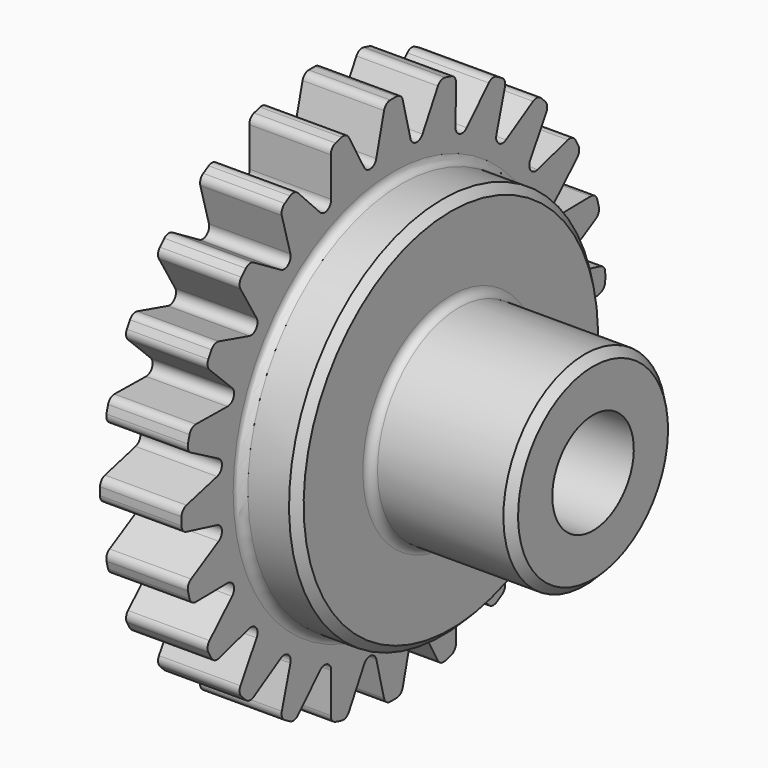
from build123d import *

# Parameters (mm, degrees)
F3_DEPTH = 25
F4_R     = 0.2
F5_R     = 0.2
F6_R     = 0.2
F7_SIZE  = 0.2


with BuildPart() as f1:
    # F0 (on Front) → F1 (revolve)
    with BuildSketch(Plane.XZ):
        Polygon((0, 6.5), (0, 1.25), (6.9, 1.25), (6.9, 2.5), (3.41, 2.5), (3.41, 4.715), (2, 4.715), (2, 6.5), align=None)
    revolve(axis=Axis((5.8943261392, 0, 0), (1, 0, 0)))

    # F2 (on face) → F3 (cut)
    with BuildSketch(Plane(origin=(0, 0, 0), x_dir=(0, -1, 0), z_dir=(-1, 0, 0))):
        with BuildLine():
            Line((-3.0225211308, 3.9390262276), (-3.4641016151, 5.5))
            ThreePointArc((-3.4641016151, 5.5), (-3.9569492886, 5.1567967119), (-4.4160165724, 4.769569963))
            Line((-4.4160165724, 4.769569963), (-3.0225211308, 3.9390262276))
        make_face()
        with BuildLine():
            Line((-1.9000362139, 4.5870931966), (-1.9225604669, 6.2091675168))
            ThreePointArc((-1.9225604669, 6.2091675168), (-2.4874423104, 6.0052169613), (-3.0310889132, 5.75))
            Line((-3.0310889132, 5.75), (-1.9000362139, 4.5870931966))
        make_face()
        with BuildLine():
            Line((-0.6480669689, 4.9225573447), (-0.25, 6.4951905284))
            ThreePointArc((-0.25, 6.4951905284), (-0.8484202494, 6.4443915989), (-1.4395975537, 6.3385770393))
            Line((-1.4395975537, 6.3385770393), (-0.6480669689, 4.9225573447))
        make_face()
        with BuildLine():
            ThreePointArc((1.4395975537, 6.3385770393), (0.8484202494, 6.4443915989), (0.25, 6.4951905284))
            Line((0.25, 6.4951905284), (0.6480669689, 4.9225573447))
            Line((0.6480669689, 4.9225573447), (1.4395975537, 6.3385770393))
        make_face()
        with BuildLine():
            ThreePointArc((3.0310889132, 5.75), (2.4874423104, 6.0052169613), (1.9225604669, 6.2091675168))
            Line((1.9225604669, 6.2091675168), (1.9000362139, 4.5870931966))
            Line((1.9000362139, 4.5870931966), (3.0310889132, 5.75))
        make_face()
        with BuildLine():
            ThreePointArc((4.4160165724, 4.769569963), (3.9569492886, 5.1567967119), (3.4641016151, 5.5))
            Line((3.4641016151, 5.5), (3.0225211308, 3.9390262276))
            Line((3.0225211308, 3.9390262276), (4.4160165724, 4.769569963))
        make_face()
        with BuildLine():
            ThreePointArc((5.5, 3.4641016151), (5.1567967119, 3.9569492886), (4.769569963, 4.4160165724))
            Line((4.769569963, 4.4160165724), (3.9390262276, 3.0225211308))
            Line((3.9390262276, 3.0225211308), (5.5, 3.4641016151))
        make_face()
        with BuildLine():
            ThreePointArc((6.2091675168, 1.9225604669), (6.0052169613, 2.4874423104), (5.75, 3.0310889132))
            Line((5.75, 3.0310889132), (4.5870931966, 1.9000362139))
            Line((4.5870931966, 1.9000362139), (6.2091675168, 1.9225604669))
        make_face()
        with BuildLine():
            ThreePointArc((6.4951905284, 0.25), (6.4443915989, 0.8484202494), (6.3385770393, 1.4395975537))
            Line((6.3385770393, 1.4395975537), (4.9225573447, 0.6480669689))
            Line((4.9225573447, 0.6480669689), (6.4951905284, 0.25))
        make_face()
        with BuildLine():
            ThreePointArc((6.3385770393, -1.4395975537), (6.4443915989, -0.8484202494), (6.4951905284, -0.25))
            Line((6.4951905284, -0.25), (4.9225573447, -0.6480669689))
            Line((4.9225573447, -0.6480669689), (6.3385770393, -1.4395975537))
        make_face()
        with BuildLine():
            ThreePointArc((5.75, -3.0310889132), (6.0052169613, -2.4874423104), (6.2091675168, -1.9225604669))
            Line((6.2091675168, -1.9225604669), (4.5870931966, -1.9000362139))
            Line((4.5870931966, -1.9000362139), (5.75, -3.0310889132))
        make_face()
        with BuildLine():
            ThreePointArc((4.769569963, -4.4160165724), (5.1567967119, -3.9569492886), (5.5, -3.4641016151))
            Line((5.5, -3.4641016151), (3.9390262276, -3.0225211308))
            Line((3.9390262276, -3.0225211308), (4.769569963, -4.4160165724))
        make_face()
        with BuildLine():
            ThreePointArc((3.4641016151, -5.5), (3.9569492886, -5.1567967119), (4.4160165724, -4.769569963))
            Line((4.4160165724, -4.769569963), (3.0225211308, -3.9390262276))
            Line((3.0225211308, -3.9390262276), (3.4641016151, -5.5))
        make_face()
        with BuildLine():
            ThreePointArc((1.9225604669, -6.2091675168), (2.4874423104, -6.0052169613), (3.0310889132, -5.75))
            Line((3.0310889132, -5.75), (1.9000362139, -4.5870931966))
            Line((1.9000362139, -4.5870931966), (1.9225604669, -6.2091675168))
        make_face()
        with BuildLine():
            ThreePointArc((0.25, -6.4951905284), (0.8484202494, -6.4443915989), (1.4395975537, -6.3385770393))
            Line((1.4395975537, -6.3385770393), (0.6480669689, -4.9225573447))
            Line((0.6480669689, -4.9225573447), (0.25, -6.4951905284))
        make_face()
        with BuildLine():
            Line((-0.6480669689, -4.9225573447), (-1.4395975537, -6.3385770393))
            ThreePointArc((-1.4395975537, -6.3385770393), (-0.8484202494, -6.4443915989), (-0.25, -6.4951905284))
            Line((-0.25, -6.4951905284), (-0.6480669689, -4.9225573447))
        make_face()
        with BuildLine():
            Line((-1.9000362139, -4.5870931966), (-3.0310889132, -5.75))
            ThreePointArc((-3.0310889132, -5.75), (-2.4874423104, -6.0052169613), (-1.9225604669, -6.2091675168))
            Line((-1.9225604669, -6.2091675168), (-1.9000362139, -4.5870931966))
        make_face()
        with BuildLine():
            Line((-3.0225211308, -3.9390262276), (-4.4160165724, -4.769569963))
            ThreePointArc((-4.4160165724, -4.769569963), (-3.9569492886, -5.1567967119), (-3.4641016151, -5.5))
            Line((-3.4641016151, -5.5), (-3.0225211308, -3.9390262276))
        make_face()
        with BuildLine():
            Line((-3.9390262276, -3.0225211308), (-5.5, -3.4641016151))
            ThreePointArc((-5.5, -3.4641016151), (-5.1567967119, -3.9569492886), (-4.769569963, -4.4160165724))
            Line((-4.769569963, -4.4160165724), (-3.9390262276, -3.0225211308))
        make_face()
        with BuildLine():
            Line((-4.5870931966, -1.9000362139), (-6.2091675168, -1.9225604669))
            ThreePointArc((-6.2091675168, -1.9225604669), (-6.0052169613, -2.4874423104), (-5.75, -3.0310889132))
            Line((-5.75, -3.0310889132), (-4.5870931966, -1.9000362139))
        make_face()
        with BuildLine():
            Line((-4.9225573447, -0.6480669689), (-6.4951905284, -0.25))
            ThreePointArc((-6.4951905284, -0.25), (-6.4443915989, -0.8484202494), (-6.3385770393, -1.4395975537))
            Line((-6.3385770393, -1.4395975537), (-4.9225573447, -0.6480669689))
        make_face()
        with BuildLine():
            Line((-4.9225573447, 0.6480669689), (-6.3385770393, 1.4395975537))
            ThreePointArc((-6.3385770393, 1.4395975537), (-6.4443915989, 0.8484202494), (-6.4951905284, 0.25))
            Line((-6.4951905284, 0.25), (-4.9225573447, 0.6480669689))
        make_face()
        with BuildLine():
            Line((-4.5870931966, 1.9000362139), (-5.75, 3.0310889132))
            ThreePointArc((-5.75, 3.0310889132), (-6.0052169613, 2.4874423104), (-6.2091675168, 1.9225604669))
            Line((-6.2091675168, 1.9225604669), (-4.5870931966, 1.9000362139))
        make_face()
        with BuildLine():
            Line((-3.9390262276, 3.0225211308), (-4.769569963, 4.4160165724))
            ThreePointArc((-4.769569963, 4.4160165724), (-5.1567967119, 3.9569492886), (-5.5, 3.4641016151))
            Line((-5.5, 3.4641016151), (-3.9390262276, 3.0225211308))
        make_face()
    extrude(amount=-F3_DEPTH, mode=Mode.SUBTRACT)

    # F4
    f4_edges = [f1.edges().sort_by_distance(p)[0] for p in [
        (1, 3.022521, 3.939026),
        (1, 1.900036, 4.587093),
        (1, 0.648067, 4.922557),
        (1, -0.648067, 4.922557),
        (1, -1.900036, 4.587093),
        (1, -3.022521, 3.939026),
        (1, -3.939026, 3.022521),
        (1, -4.587093, 1.900036),
        (1, -4.922557, 0.648067),
        (1, -4.922557, -0.648067),
        (1, -4.587093, -1.900036),
        (1, -3.939026, -3.022521),
        (1, -3.022521, -3.939026),
        (1, -1.900036, -4.587093),
        (1, -0.648067, -4.922557),
        (1, 0.648067, -4.922557),
        (1, 1.900036, -4.587093),
        (1, 3.022521, -3.939026),
        (1, 3.939026, -3.022521),
        (1, 4.587093, -1.900036),
        (1, 4.922557, -0.648067),
        (1, 4.922557, 0.648067),
        (1, 4.587093, 1.900036),
        (1, 3.939026, 3.022521),
    ]]
    fillet(f4_edges, radius=F4_R)

    # F5
    f5_edges = [f1.edges().sort_by_distance(p)[0] for p in [
        (1, -3.031089, 5.75),
        (1, -3.464102, 5.5),
        (1, -4.416017, 4.76957),
        (1, -4.76957, 4.416017),
        (1, -5.5, 3.464102),
        (1, -5.75, 3.031089),
        (1, -6.209168, 1.92256),
        (1, -6.338577, 1.439598),
        (1, -6.495191, 0.25),
        (1, -6.495191, -0.25),
        (1, -6.338577, -1.439598),
        (1, -6.209168, -1.92256),
        (1, -5.75, -3.031089),
        (1, -5.5, -3.464102),
        (1, -4.76957, -4.416017),
        (1, -4.416017, -4.76957),
        (1, -3.464102, -5.5),
        (1, -3.031089, -5.75),
        (1, -1.92256, -6.209168),
        (1, -1.439598, -6.338577),
        (1, 0.25, -6.495191),
        (1, -0.25, -6.495191),
        (1, 1.439598, -6.338577),
        (1, 1.92256, -6.209168),
        (1, 3.031089, -5.75),
        (1, 3.464102, -5.5),
        (1, 4.416017, -4.76957),
        (1, 4.76957, -4.416017),
        (1, 5.5, -3.464102),
        (1, 5.75, -3.031089),
        (1, 6.209168, -1.92256),
        (1, 6.338577, -1.439598),
        (1, 6.495191, -0.25),
        (1, 6.495191, 0.25),
        (1, 6.338577, 1.439598),
        (1, 6.209168, 1.92256),
        (1, 5.75, 3.031089),
        (1, 5.5, 3.464102),
        (1, 4.76957, 4.416017),
        (1, 4.416017, 4.76957),
        (1, 3.464102, 5.5),
        (1, 3.031089, 5.75),
        (1, 1.92256, 6.209168),
        (1, 1.439598, 6.338577),
        (1, -0.25, 6.495191),
        (1, 0.25, 6.495191),
        (1, -1.439598, 6.338577),
        (1, -1.92256, 6.209168),
    ]]
    fillet(f5_edges, radius=F5_R)

    # F6
    f6_edges = [f1.edges().sort_by_distance(p)[0] for p in [
        (2, 0, -4.715),
        (3.41, 0, -2.5),
    ]]
    fillet(f6_edges, radius=F6_R)

    # F7
    f7_edges = [f1.edges().sort_by_distance(p)[0] for p in [
        (6.9, 0, -2.5),
        (3.41, 0, -4.715),
    ]]
    chamfer(f7_edges, length=F7_SIZE)


solid = f1.part
